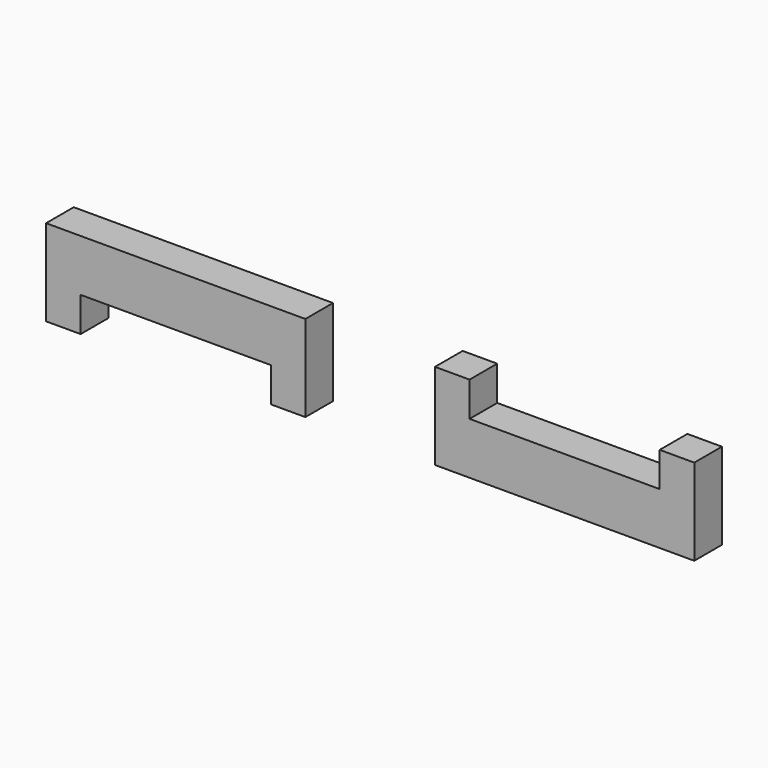
from build123d import *

# Parameters (mm, degrees)
PAD_DEPTH = 20


with BuildPart() as part:
    # Sketch → Pad (new body)
    with BuildSketch(Plane.XZ):
        Polygon((0, 50), (0, 0), (20, 0), (20, 20), (130, 20), (130, 0), (150, 0), (150, 50), align=None)
        Polygon((225, 50), (225, 0), (375, 0), (375, 50), (355, 50), (355, 30), (245, 30), (245, 50), align=None)
    extrude(amount=PAD_DEPTH)


solid = part.part
